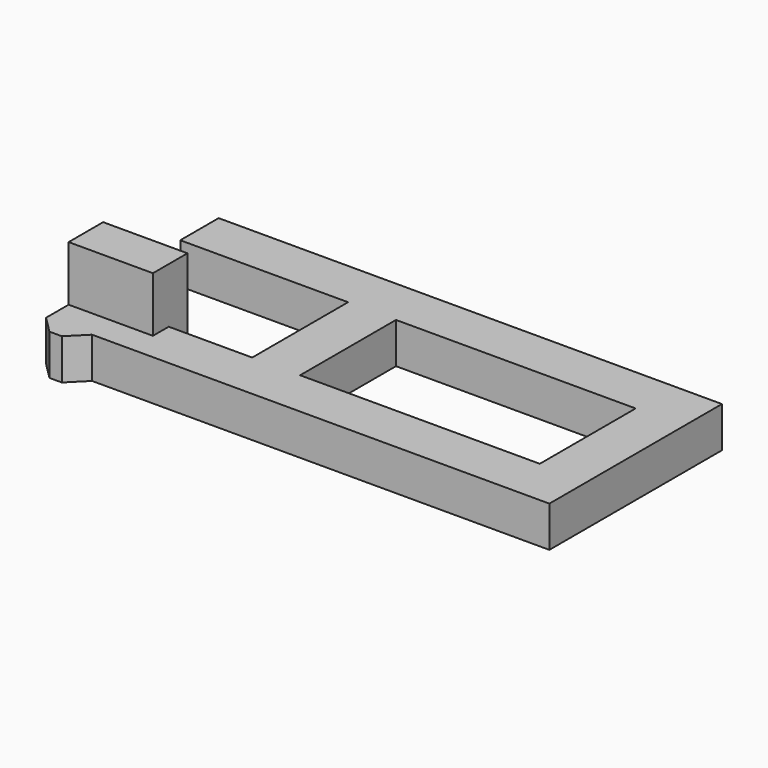
from build123d import *

# Parameters (mm, degrees)
SKETCH061_W                    = 10
SKETCH061_H                    = 5
PAD017_DEPTH                   = 1.7
SKETCH062_W                    = 3.516788
SKETCH062_H                    = 1.8
PAD018_DEPTH                   = 4
PART_MIRRORING_PLACEMENT_ANGLE = 180


with BuildPart() as obj1:
    # Sketch061 → Pad017 (new body)
    with BuildSketch(Plane.XY):
        Polygon((30, 0), (51, 0), (51, 9), (31.917717, 9), (31.217717, 9.7), (30.7, 9.7), (30, 9), (30, 7), (37, 7), (37, 2), (30, 2), align=None)
        with Locations((44, 4.5)):
            Rectangle(SKETCH061_W, SKETCH061_H, mode=Mode.SUBTRACT)
    extrude(amount=PAD017_DEPTH)

    # Sketch062 → Pad018 (join)
    with BuildSketch(Plane.XY):
        with Locations((31.758394, 6.923936)):
            Rectangle(SKETCH062_W, SKETCH062_H)
    extrude(amount=PAD018_DEPTH)


with BuildPart() as obj1_petg:
    # Part__Mirroring: instance of obj1
    add(obj1.part.mirror(Plane(origin=(0, 0, 0), x_dir=(0, 1, 0), z_dir=(0, 0, 1))))


with BuildPart() as obj1_petg_1:
    # Part__Mirroring placement: moved
    add(obj1_petg.part.moved(Location((0, -1, 0))).rotate(Axis((0, -1, 0), (1, 0, 0)), PART_MIRRORING_PLACEMENT_ANGLE))


solid = obj1_petg_1.part
